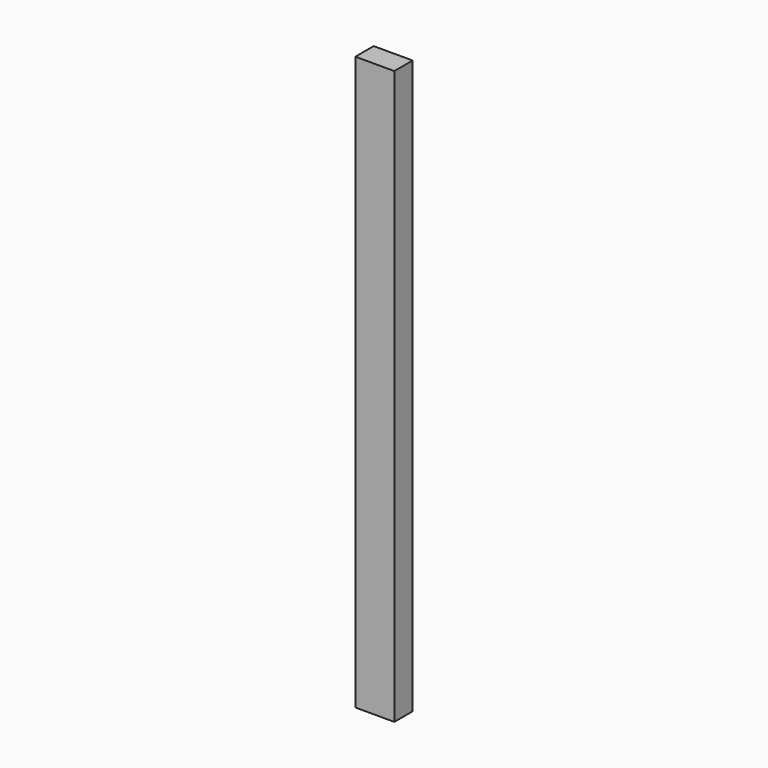
from build123d import *

# Parameters (mm, degrees)
SKETCH_W  = 203.999
SKETCH_H  = 119.999
PAD_DEPTH = 1500


with BuildPart() as part:
    # Sketch → Pad (new body, symmetric)
    with BuildSketch(Plane.XY):
        Rectangle(SKETCH_W, SKETCH_H)
    extrude(amount=PAD_DEPTH, both=True)


solid = part.part
